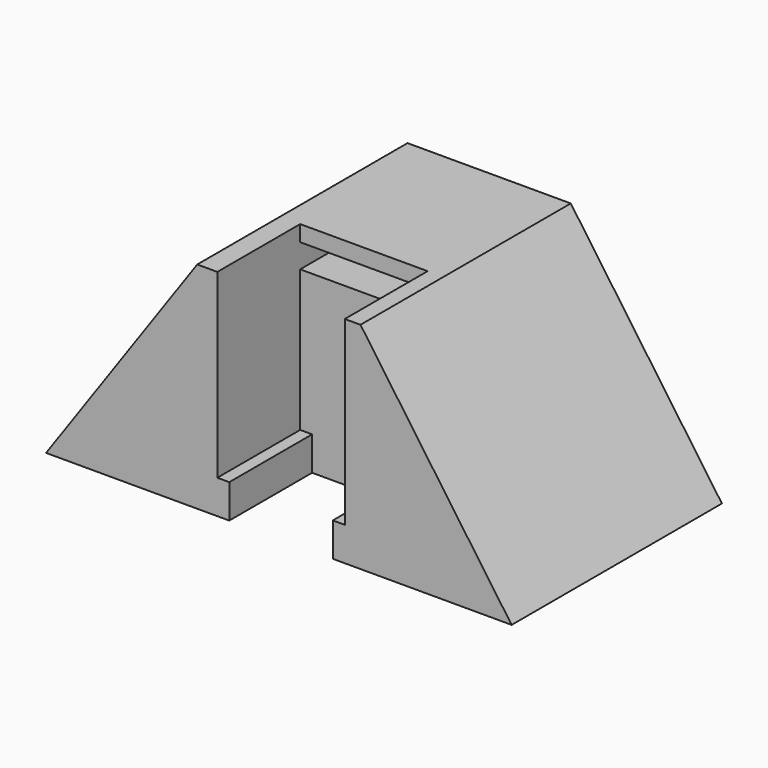
from build123d import *

# Parameters (mm, degrees)
F1_DEPTH = 27
F3_DEPTH = 33
F4_W     = 1.5
F4_H     = 13
F5_DEPTH = 22.75
F6_W     = 16
F6_H     = 3
F7_DEPTH = 5


with BuildPart() as f1:
    # F0 (on Top) → F1 (new body)
    with BuildSketch(Plane.XY):
        Polygon((28.95, 33), (-29.5, 33), (-29.5, 0), (-6.5, 0), (-6.5, 13), (6.5, 13), (6.5, 0), (28.95, 0), align=None)
    extrude(amount=F1_DEPTH)

    # F2 (on face) → F3 (cut, through all)
    with BuildSketch(Plane.XZ):
        Polygon((28.95, 0), (28.95, 27), (9.974082, 27), align=None)
        Polygon((-29.5, 0), (-10.524082, 27), (-29.454212, 27), (-29.5, 27), align=None)
    extrude(amount=-F3_DEPTH, mode=Mode.SUBTRACT)

    # F4 (on face) → F5 (cut)
    with BuildSketch(Plane.XY.offset(27)):
        with Locations((-7.25, 6.5)):
            Rectangle(F4_W, F4_H)
        with Locations((7.25, 6.5)):
            Rectangle(F4_W, F4_H)
    extrude(amount=-F5_DEPTH, mode=Mode.SUBTRACT)

    # F6 (on face) → F7 (cut)
    with BuildSketch(Plane.XZ.offset(-13)):
        with Locations((0, 23.5)):
            Rectangle(F6_W, F6_H)
    extrude(amount=-F7_DEPTH, mode=Mode.SUBTRACT)


solid = f1.part
